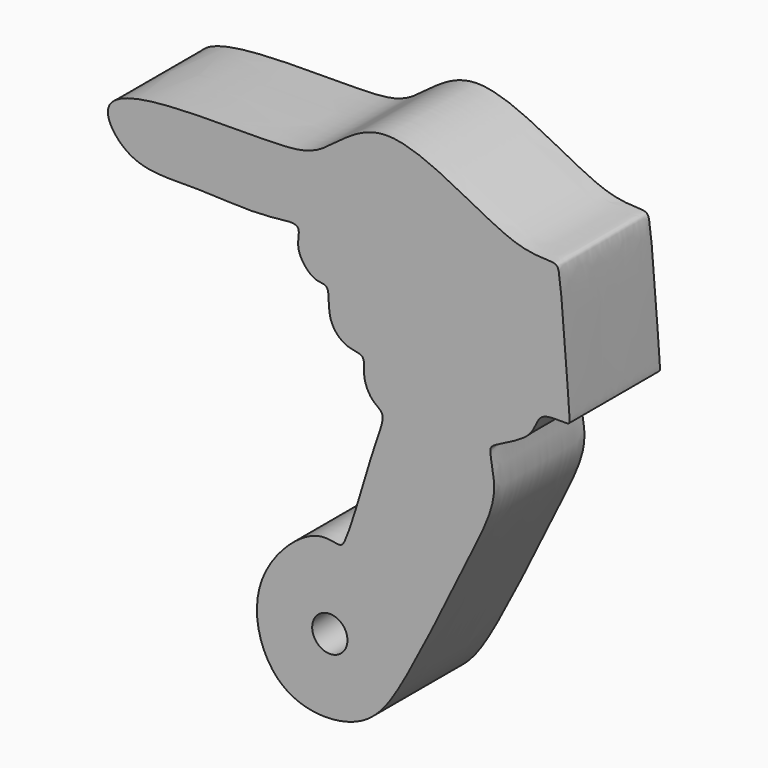
from build123d import *

# Parameters (mm, degrees)
F1_DEPTH = 8
F2_DEPTH = 3.5
F3_R     = 1.25
F4_DEPTH = 4.5010001


with BuildPart() as f1:
    # F0 (on Front) → F1 (new body)
    with BuildSketch(Plane.XZ):
        with BuildLine():
            add(Edge.make_bspline(
                [(-71.731172502, 1.43133034), (-73.04053618, 1.1624508433), (-74.5937922373, 0.2208313361), (-72.1731948119, -3.0350394082), (-67.7006992814, -2.6451128169), (-62.9759967127, -3.1249102981), (-59.9163026855, -2.4196837058), (-60.699508873, -4.2751657397), (-59.2663432843, -5.9531368884), (-58.0249818038, -5.6543465053), (-58.3964074303, -7.9100145793), (-57.0299194733, -9.3361729822), (-55.5168864223, -9.2443190918), (-55.8406737667, -10.6826049031), (-55.1735523291, -12.0358789752), (-54.0671781732, -12.5192565966), (-55.0876619192, -14.7905890581), (-56.8554901658, -21.4413083241), (-57.4841098816, -21.833173753), (-59.4136946908, -21.0902843943), (-64.4497110951, -25.847802844), (-62.2123434925, -32.9639240025), (-55.613180053, -32.9986854403), (-52.6583460908, -28.6900471911), (-48.1900464507, -19.2947980443), (-46.0595887014, -15.1379951788), (-46.8506074048, -12.4834085249), (-46.6038638236, -11.8340084126), (-43.5263919141, -10.744021729), (-43.4594779034, -8.6452551314), (-41.0697636715, -9.041856793), (-41.1560669619, -8.3322234853), (-41.7253637249, 0.0139966255), (-42.0664175896, 0.9984398938), (-45.3191102333, 0.4177746621), (-54.0511527411, 6.9601359079), (-58.4694519552, 2.2773972946), (-61.5982013325, 1.633114696), (-69.1365896264, 1.9641312336), (-71.731172502, 1.43133034)],
                knots=[0, 0, 0, 0, 0.0250580732, 0.0515276896, 0.0845399269, 0.1202669945, 0.1435631192, 0.1613886501, 0.1833923989, 0.1976837179, 0.2187666575, 0.2402108789, 0.2568229489, 0.2735476803, 0.2926846501, 0.3072802366, 0.3311821187, 0.3725578415, 0.3838120096, 0.4034638954, 0.4418123415, 0.4804185647, 0.5159722904, 0.5512001146, 0.6022693138, 0.6364846988, 0.6602525081, 0.6720512477, 0.6990334911, 0.7194450634, 0.7402694604, 0.7511496172, 0.7968240491, 0.8113481328, 0.8369795906, 0.8865035211, 0.9215271128, 0.9503459208, 1, 1, 1, 1], degree=3))
        make_face()
        with BuildLine():
            ThreePointArc((-59.1525374261, -25.5100043288), (-56.2710189989, -25.1908624264), (-55.9518770965, -28.0723808536))
            Line((-55.9518770965, -28.0723808536), (-57.0768228879, -29.4775488031))
            ThreePointArc((-57.0768228879, -29.4775488031), (-59.9583413151, -29.7966907056), (-60.2774832175, -26.9151722784))
            Line((-60.2774832175, -26.9151722784), (-59.1525374261, -25.5100043288))
        make_face(mode=Mode.SUBTRACT)
        with BuildLine():
            Line((-57.0768228879, -29.4775488031), (-55.9518770965, -28.0723808536))
            ThreePointArc((-55.9518770965, -28.0723808536), (-56.2710189989, -25.1908624264), (-59.1525374261, -25.5100043288))
            Line((-59.1525374261, -25.5100043288), (-60.2774832175, -26.9151722784))
            ThreePointArc((-60.2774832175, -26.9151722784), (-59.9583413151, -29.7966907056), (-57.0768228879, -29.4775488031))
        make_face()
    extrude(amount=F1_DEPTH)

    # F0 (on Front) → F2 (cut)
    with BuildSketch(Plane.XZ):
        with BuildLine():
            Line((-57.0768228879, -29.4775488031), (-55.9518770965, -28.0723808536))
            ThreePointArc((-55.9518770965, -28.0723808536), (-56.2710189989, -25.1908624264), (-59.1525374261, -25.5100043288))
            Line((-59.1525374261, -25.5100043288), (-60.2774832175, -26.9151722784))
            ThreePointArc((-60.2774832175, -26.9151722784), (-59.9583413151, -29.7966907056), (-57.0768228879, -29.4775488031))
        make_face()
    extrude(amount=F2_DEPTH, mode=Mode.SUBTRACT)

    # F3 (on face) → F4 (cut, through all)
    with BuildSketch(Plane(origin=(0, -3.5, 0), x_dir=(-1, 0, 0), z_dir=(0, 1, 0))):
        with Locations((58.114680157, -27.493776566)):
            Circle(F3_R)
    extrude(amount=-F4_DEPTH, mode=Mode.SUBTRACT)


solid = f1.part
